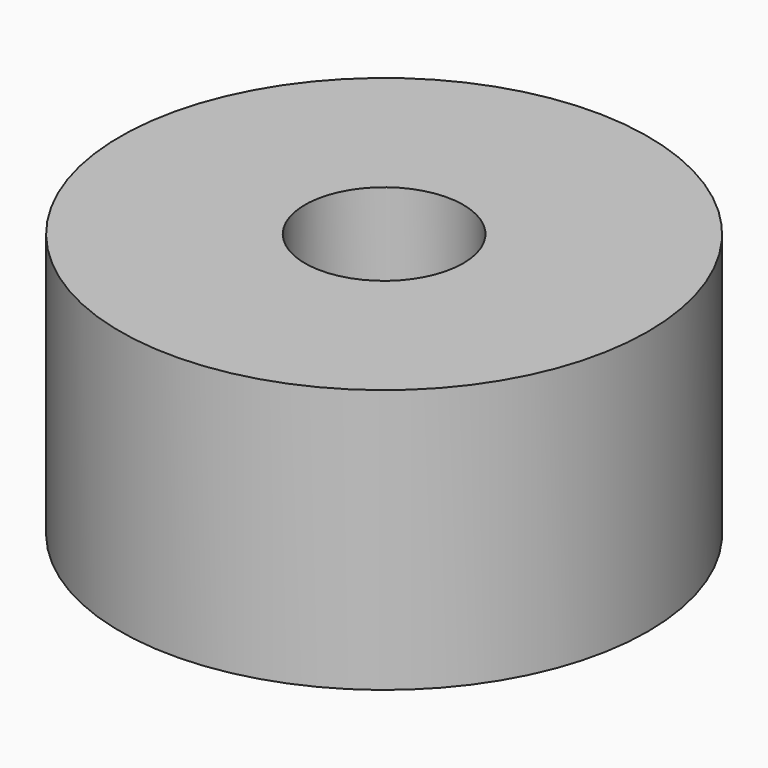
from build123d import *

# Parameters (mm, degrees)
F0_R     = 15.875
F0_R_2   = 7.9375
F1_DEPTH = 15.875
F2_R     = 7.9375
F3_DEPTH = 6.35
F4_R     = 4.7625
F5_DEPTH = 25.4


with BuildPart() as f1:
    # F0 (on Top) → F1 (new body)
    with BuildSketch(Plane.XY):
        Circle(F0_R)
        Circle(F0_R_2, mode=Mode.SUBTRACT)
        Circle(F0_R_2)
    extrude(amount=F1_DEPTH)

    # F2 (on face) → F3 (cut)
    with BuildSketch(Plane(origin=(0, 0, 0), x_dir=(1, 0, 0), z_dir=(0, 0, -1))):
        Circle(F2_R)
    extrude(amount=-F3_DEPTH, mode=Mode.SUBTRACT)

    # F4 (on face) → F5 (cut)
    with BuildSketch(Plane(origin=(0, 0, 6.35), x_dir=(1, 0, 0), z_dir=(0, 0, -1))):
        Circle(F4_R)
    extrude(amount=-F5_DEPTH, mode=Mode.SUBTRACT)


solid = f1.part
